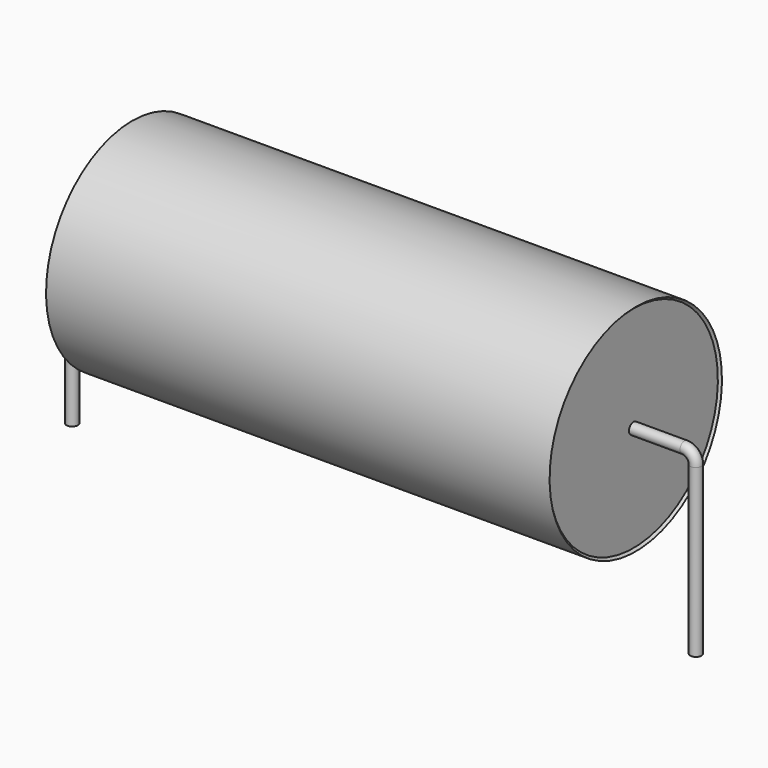
from build123d import *

# Parameters (mm, degrees)
SKETCH_R = 0.25


with BuildPart() as sweep_body:
    # Sweep: sweep along a path in Sketch001
    with BuildLine(Plane.XZ) as sweep_path:
        Line((0, -3), (0, 4.35))
        ThreePointArc((0, 4.35), (0.146443, 4.70355), (0.499991, 4.85))
        Line((0.499991, 4.85), (27, 4.85))
        ThreePointArc((27, 4.85), (27.353553, 4.703553), (27.5, 4.35))
        Line((27.5, 4.35), (27.5, -3))
    # Sketch → Sweep (sweep)
    with BuildSketch(Plane.XY.offset(-2)):
        Circle(SKETCH_R)
    sweep(path=sweep_path.line)


with BuildPart() as revolution:
    # Sketch002 → Revolution (revolve)
    with BuildSketch(Plane.XZ):
        Polygon((2.65, 9.6), (24.85, 9.6), (24.75, 9.5), (24.75, 4.85), (2.75, 4.85), (2.75, 9.5), align=None)
    revolve(axis=Axis((7.611803, 0, 4.85), (1, 0, 0)))


solid = Compound([sweep_body.part, revolution.part])
